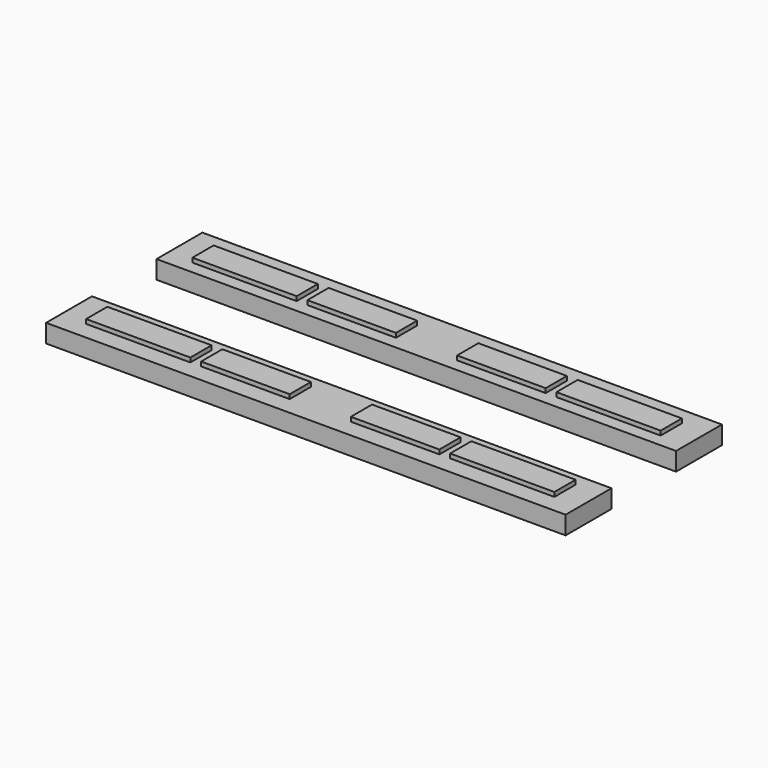
from build123d import *

# Parameters (mm, degrees)
F0_W     = 25.895585
F0_H     = 7.754308
F0_W_2   = 30.48
F1_DEPTH = 5.334
F2_DEPTH = 6.604


with BuildPart() as f1:
    # F0 (on Top) → F1 (new body)
    with BuildSketch(Plane.XY):
        Polygon((75.946, 28.564036), (0, 28.564036), (-75.946, 28.564036), (-75.946, 11.800036), (0, 11.800036), (75.946, 11.800036), align=None)
        Polygon((-68.453, 15.541512), (-68.453, 20.182036), (-68.453, 23.29582), (-37.973, 23.29582), (-37.973, 15.541512), align=None, mode=Mode.SUBTRACT)
        with Locations((-21.883716, 19.418666)):
            Rectangle(F0_W, F0_H, mode=Mode.SUBTRACT)
        with Locations((21.883716, 19.418666)):
            Rectangle(F0_W, F0_H, mode=Mode.SUBTRACT)
        with Locations((53.213, 19.418666)):
            Rectangle(F0_W_2, F0_H, mode=Mode.SUBTRACT)
        Polygon((0, -11.800036), (-75.946, -11.800036), (-75.946, -28.564036), (0, -28.564036), (75.946, -28.564036), (75.946, -11.800036), align=None)
        Polygon((-37.973, -15.541512), (-37.973, -23.29582), (-68.453, -23.29582), (-68.453, -20.182036), (-68.453, -15.541512), align=None, mode=Mode.SUBTRACT)
        with Locations((-21.883716, -19.418666)):
            Rectangle(F0_W, F0_H, mode=Mode.SUBTRACT)
        with Locations((21.883716, -19.418666)):
            Rectangle(F0_W, F0_H, mode=Mode.SUBTRACT)
        with Locations((53.213, -19.418666)):
            Rectangle(F0_W_2, F0_H, mode=Mode.SUBTRACT)
    extrude(amount=F1_DEPTH)


with BuildPart() as f2:
    # F0 (on Top) → F2 (new body)
    with BuildSketch(Plane.XY):
        Polygon((-68.453, 23.29582), (-68.453, 20.182036), (-68.453, 15.541512), (-37.973, 15.541512), (-37.973, 23.29582), align=None)
        with Locations((-21.883716, 19.418666)):
            Rectangle(F0_W, F0_H)
        with Locations((21.883716, 19.418666)):
            Rectangle(F0_W, F0_H)
        with Locations((53.213, 19.418666)):
            Rectangle(F0_W_2, F0_H)
        Polygon((-68.453, -23.29582), (-37.973, -23.29582), (-37.973, -15.541512), (-68.453, -15.541512), (-68.453, -20.182036), align=None)
        with Locations((-21.883716, -19.418666)):
            Rectangle(F0_W, F0_H)
        with Locations((21.883716, -19.418666)):
            Rectangle(F0_W, F0_H)
        with Locations((53.213, -19.418666)):
            Rectangle(F0_W_2, F0_H)
    extrude(amount=F2_DEPTH)


solid = Compound([f1.part, f2.part])
